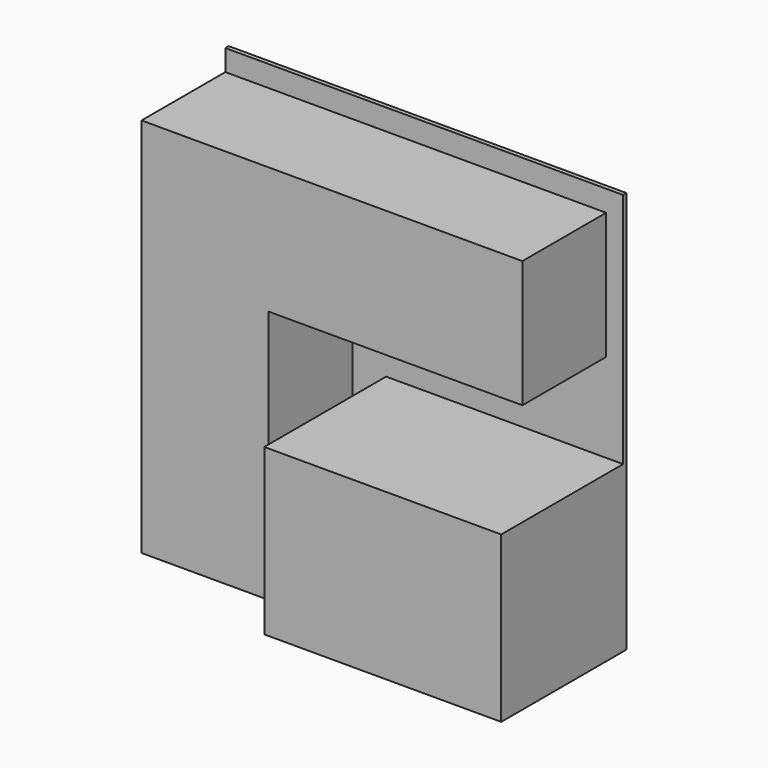
from build123d import *

# Parameters (mm, degrees)
F0_W     = 2387.6
F0_H     = 2413
F1_DEPTH = 25.4
F2_W     = 1422.4
F2_H     = 990.6
F3_DEPTH = 914.4
F4_W     = 762
F4_H     = 762
F5_DEPTH = 628.65


with BuildPart() as f1:
    # F0 (on Front) → F1 (new body)
    with BuildSketch(Plane.XZ):
        Rectangle(F0_W, F0_H)
    extrude(amount=F1_DEPTH)

    # F2 (on face) → F3 (join)
    with BuildSketch(Plane.XZ.offset(25.4)):
        with Locations((482.6, -711.2)):
            Rectangle(F2_W, F2_H)
    extrude(amount=F3_DEPTH)

    # F4 (on face) → F5 (join)
    with BuildSketch(Plane.XZ.offset(25.4)):
        Polygon((-1193.8, 1079.5), (-1193.8, -1206.5), (-431.8, -1206.5), (-431.8, 317.5), (-431.8, 1079.5), align=None)
        with Locations((-50.8, 698.5)):
            Rectangle(F4_W, F4_H)
        with Locations((711.2, 698.5)):
            Rectangle(F4_W, F4_H)
    extrude(amount=F5_DEPTH)


solid = f1.part
